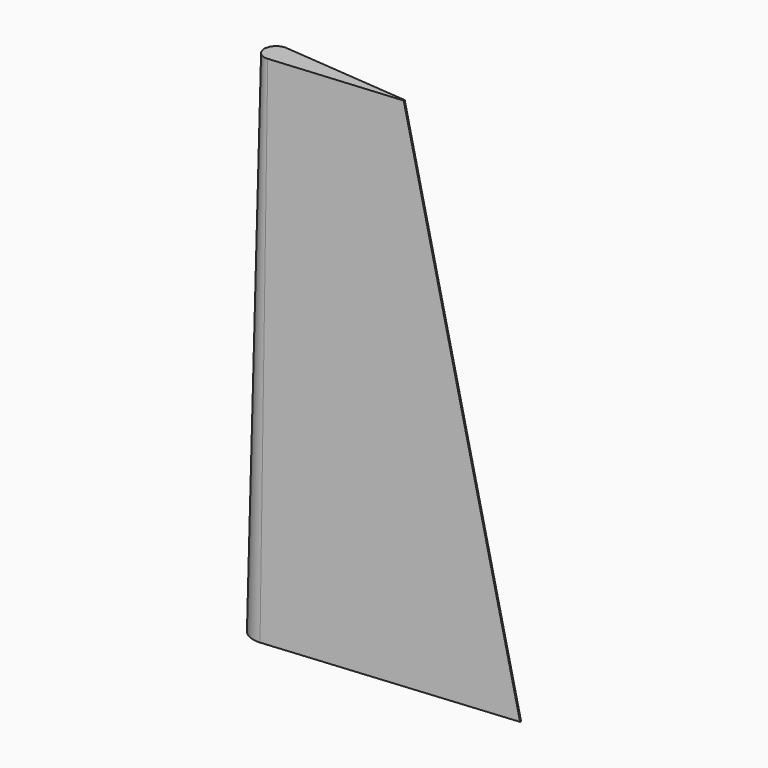
from build123d import *


with BuildPart() as f3:
    # F1 (on Top) → F3 section 0
    with BuildSketch(Plane.XY):
        with BuildLine():
            Line((590, -1.5), (590, 0))
            Line((590, 0), (590, 1.5))
            Line((590, 1.5), (4.9878643333, 54.7733622246))
            ThreePointArc((4.9878643333, 54.7733622246), (-37.0854921881, 40.6160838729), (-55, 0))
            ThreePointArc((-55, 0), (-37.0854921881, -40.6160838729), (4.9878643333, -54.7733622246))
            Line((4.9878643333, -54.7733622246), (590, -1.5))
        make_face()
    # F2 (on offset) → F3 section 1
    with BuildSketch(Plane.XY.offset(1228.55)):
        with BuildLine():
            Line((309.2, -1.5), (309.2, 0))
            Line((309.2, 0), (309.2, 1.5))
            Line((309.2, 1.5), (2.4534276298, 28.1934512408))
            ThreePointArc((2.4534276298, 28.1934512408), (-19.1240424345, 20.8605129602), (-28.3, 0))
            ThreePointArc((-28.3, 0), (-19.1240424345, -20.8605129602), (2.4534276298, -28.1934512408))
            Line((2.4534276298, -28.1934512408), (309.2, -1.5))
        make_face()
    loft()


solid = f3.part
